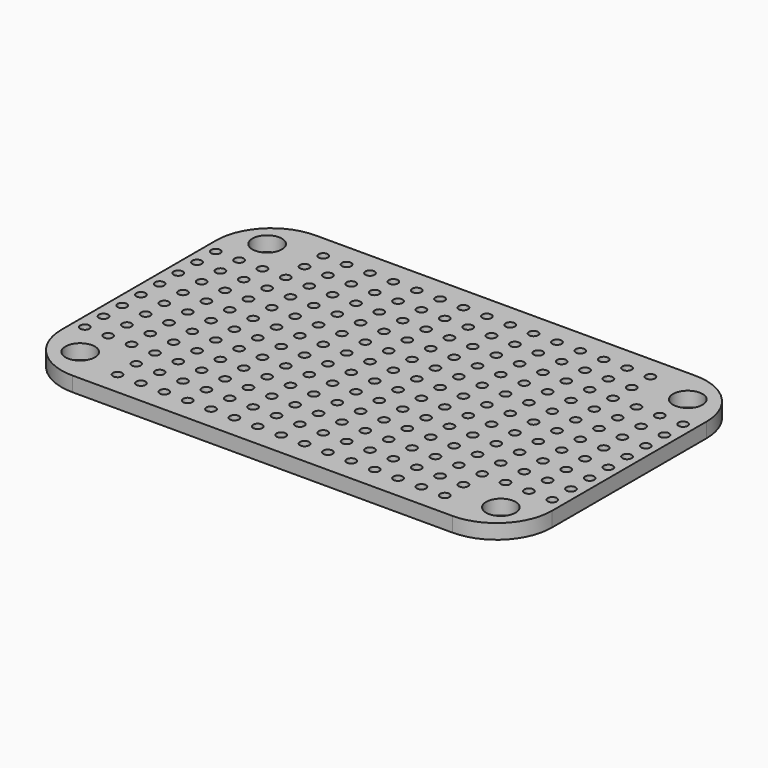
from build123d import *

# Parameters (mm, degrees)
F0_R     = 1.6
F0_R_2   = 0.5
F1_DEPTH = 1.6


with BuildPart() as f1:
    # F0 (on Top) → F1 (new body)
    with BuildSketch(Plane.XY):
        with BuildLine():
            Line((-20.65, -16.5), (20.65, -16.5))
            ThreePointArc((20.65, -16.5), (24.892641, -14.742641), (26.65, -10.5))
            Line((26.65, -10.5), (26.65, 10.5))
            ThreePointArc((26.65, 10.5), (24.892641, 14.742641), (20.65, 16.5))
            Line((20.65, 16.5), (-20.65, 16.5))
            ThreePointArc((-20.65, 16.5), (-24.892641, 14.742641), (-26.65, 10.5))
            Line((-26.65, 10.5), (-26.65, -10.5))
            ThreePointArc((-26.65, -10.5), (-24.892641, -14.742641), (-20.65, -16.5))
        make_face()
        with Locations((-22.86, -12.7)):
            Circle(F0_R, mode=Mode.SUBTRACT)
        with Locations((-17.78, -13.97)):
            Circle(F0_R_2, mode=Mode.SUBTRACT)
        with Locations((-15.24, -13.97)):
            Circle(F0_R_2, mode=Mode.SUBTRACT)
        with Locations((-25.4, -8.89)):
            Circle(F0_R_2, mode=Mode.SUBTRACT)
        with Locations((-22.86, -8.89)):
            Circle(F0_R_2, mode=Mode.SUBTRACT)
        with Locations((-20.32, -8.89)):
            Circle(F0_R_2, mode=Mode.SUBTRACT)
        with Locations((-17.78, -11.43)):
            Circle(F0_R_2, mode=Mode.SUBTRACT)
        with Locations((-15.24, -11.43)):
            Circle(F0_R_2, mode=Mode.SUBTRACT)
        with Locations((-17.78, -8.89)):
            Circle(F0_R_2, mode=Mode.SUBTRACT)
        with Locations((-15.24, -8.89)):
            Circle(F0_R_2, mode=Mode.SUBTRACT)
        with Locations((-12.7, -13.97)):
            Circle(F0_R_2, mode=Mode.SUBTRACT)
        with Locations((-10.16, -13.97)):
            Circle(F0_R_2, mode=Mode.SUBTRACT)
        with Locations((-7.62, -13.97)):
            Circle(F0_R_2, mode=Mode.SUBTRACT)
        with Locations((-5.08, -13.97)):
            Circle(F0_R_2, mode=Mode.SUBTRACT)
        with Locations((-2.54, -13.97)):
            Circle(F0_R_2, mode=Mode.SUBTRACT)
        with Locations((-12.7, -11.43)):
            Circle(F0_R_2, mode=Mode.SUBTRACT)
        with Locations((-10.16, -11.43)):
            Circle(F0_R_2, mode=Mode.SUBTRACT)
        with Locations((-7.62, -11.43)):
            Circle(F0_R_2, mode=Mode.SUBTRACT)
        with Locations((-12.7, -8.89)):
            Circle(F0_R_2, mode=Mode.SUBTRACT)
        with Locations((-10.16, -8.89)):
            Circle(F0_R_2, mode=Mode.SUBTRACT)
        with Locations((-7.62, -8.89)):
            Circle(F0_R_2, mode=Mode.SUBTRACT)
        with Locations((-5.08, -11.43)):
            Circle(F0_R_2, mode=Mode.SUBTRACT)
        with Locations((-2.54, -11.43)):
            Circle(F0_R_2, mode=Mode.SUBTRACT)
        with Locations((-5.08, -8.89)):
            Circle(F0_R_2, mode=Mode.SUBTRACT)
        with Locations((-2.54, -8.89)):
            Circle(F0_R_2, mode=Mode.SUBTRACT)
        with Locations((-25.4, -6.35)):
            Circle(F0_R_2, mode=Mode.SUBTRACT)
        with Locations((-22.86, -6.35)):
            Circle(F0_R_2, mode=Mode.SUBTRACT)
        with Locations((-20.32, -6.35)):
            Circle(F0_R_2, mode=Mode.SUBTRACT)
        with Locations((-17.78, -6.35)):
            Circle(F0_R_2, mode=Mode.SUBTRACT)
        with Locations((-15.24, -6.35)):
            Circle(F0_R_2, mode=Mode.SUBTRACT)
        with Locations((-25.4, -3.81)):
            Circle(F0_R_2, mode=Mode.SUBTRACT)
        with Locations((-22.86, -3.81)):
            Circle(F0_R_2, mode=Mode.SUBTRACT)
        with Locations((-20.32, -3.81)):
            Circle(F0_R_2, mode=Mode.SUBTRACT)
        with Locations((-25.4, -1.27)):
            Circle(F0_R_2, mode=Mode.SUBTRACT)
        with Locations((-22.86, -1.27)):
            Circle(F0_R_2, mode=Mode.SUBTRACT)
        with Locations((-20.32, -1.27)):
            Circle(F0_R_2, mode=Mode.SUBTRACT)
        with Locations((-17.78, -3.81)):
            Circle(F0_R_2, mode=Mode.SUBTRACT)
        with Locations((-15.24, -3.81)):
            Circle(F0_R_2, mode=Mode.SUBTRACT)
        with Locations((-17.78, -1.27)):
            Circle(F0_R_2, mode=Mode.SUBTRACT)
        with Locations((-15.24, -1.27)):
            Circle(F0_R_2, mode=Mode.SUBTRACT)
        with Locations((-12.7, -6.35)):
            Circle(F0_R_2, mode=Mode.SUBTRACT)
        with Locations((-10.16, -6.35)):
            Circle(F0_R_2, mode=Mode.SUBTRACT)
        with Locations((-7.62, -6.35)):
            Circle(F0_R_2, mode=Mode.SUBTRACT)
        with Locations((-5.08, -6.35)):
            Circle(F0_R_2, mode=Mode.SUBTRACT)
        with Locations((-2.54, -6.35)):
            Circle(F0_R_2, mode=Mode.SUBTRACT)
        with Locations((-12.7, -3.81)):
            Circle(F0_R_2, mode=Mode.SUBTRACT)
        with Locations((-10.16, -3.81)):
            Circle(F0_R_2, mode=Mode.SUBTRACT)
        with Locations((-7.62, -3.81)):
            Circle(F0_R_2, mode=Mode.SUBTRACT)
        with Locations((-12.7, -1.27)):
            Circle(F0_R_2, mode=Mode.SUBTRACT)
        with Locations((-10.16, -1.27)):
            Circle(F0_R_2, mode=Mode.SUBTRACT)
        with Locations((-7.62, -1.27)):
            Circle(F0_R_2, mode=Mode.SUBTRACT)
        with Locations((-5.08, -3.81)):
            Circle(F0_R_2, mode=Mode.SUBTRACT)
        with Locations((-2.54, -3.81)):
            Circle(F0_R_2, mode=Mode.SUBTRACT)
        with Locations((-5.08, -1.27)):
            Circle(F0_R_2, mode=Mode.SUBTRACT)
        with Locations((-2.54, -1.27)):
            Circle(F0_R_2, mode=Mode.SUBTRACT)
        with Locations((0, -13.97)):
            Circle(F0_R_2, mode=Mode.SUBTRACT)
        with Locations((2.54, -13.97)):
            Circle(F0_R_2, mode=Mode.SUBTRACT)
        with Locations((5.08, -13.97)):
            Circle(F0_R_2, mode=Mode.SUBTRACT)
        with Locations((7.62, -13.97)):
            Circle(F0_R_2, mode=Mode.SUBTRACT)
        with Locations((10.16, -13.97)):
            Circle(F0_R_2, mode=Mode.SUBTRACT)
        with Locations((12.7, -13.97)):
            Circle(F0_R_2, mode=Mode.SUBTRACT)
        with Locations((0, -11.43)):
            Circle(F0_R_2, mode=Mode.SUBTRACT)
        with Locations((2.54, -11.43)):
            Circle(F0_R_2, mode=Mode.SUBTRACT)
        with Locations((5.08, -11.43)):
            Circle(F0_R_2, mode=Mode.SUBTRACT)
        with Locations((0, -8.89)):
            Circle(F0_R_2, mode=Mode.SUBTRACT)
        with Locations((2.54, -8.89)):
            Circle(F0_R_2, mode=Mode.SUBTRACT)
        with Locations((5.08, -8.89)):
            Circle(F0_R_2, mode=Mode.SUBTRACT)
        with Locations((7.62, -11.43)):
            Circle(F0_R_2, mode=Mode.SUBTRACT)
        with Locations((10.16, -11.43)):
            Circle(F0_R_2, mode=Mode.SUBTRACT)
        with Locations((12.7, -11.43)):
            Circle(F0_R_2, mode=Mode.SUBTRACT)
        with Locations((7.62, -8.89)):
            Circle(F0_R_2, mode=Mode.SUBTRACT)
        with Locations((10.16, -8.89)):
            Circle(F0_R_2, mode=Mode.SUBTRACT)
        with Locations((12.7, -8.89)):
            Circle(F0_R_2, mode=Mode.SUBTRACT)
        with Locations((15.24, -13.97)):
            Circle(F0_R_2, mode=Mode.SUBTRACT)
        with Locations((17.78, -13.97)):
            Circle(F0_R_2, mode=Mode.SUBTRACT)
        with Locations((22.86, -12.7)):
            Circle(F0_R, mode=Mode.SUBTRACT)
        with Locations((15.24, -11.43)):
            Circle(F0_R_2, mode=Mode.SUBTRACT)
        with Locations((17.78, -11.43)):
            Circle(F0_R_2, mode=Mode.SUBTRACT)
        with Locations((15.24, -8.89)):
            Circle(F0_R_2, mode=Mode.SUBTRACT)
        with Locations((17.78, -8.89)):
            Circle(F0_R_2, mode=Mode.SUBTRACT)
        with Locations((20.32, -8.89)):
            Circle(F0_R_2, mode=Mode.SUBTRACT)
        with Locations((22.86, -8.89)):
            Circle(F0_R_2, mode=Mode.SUBTRACT)
        with Locations((25.4, -8.89)):
            Circle(F0_R_2, mode=Mode.SUBTRACT)
        with Locations((0, -6.35)):
            Circle(F0_R_2, mode=Mode.SUBTRACT)
        with Locations((2.54, -6.35)):
            Circle(F0_R_2, mode=Mode.SUBTRACT)
        with Locations((5.08, -6.35)):
            Circle(F0_R_2, mode=Mode.SUBTRACT)
        with Locations((7.62, -6.35)):
            Circle(F0_R_2, mode=Mode.SUBTRACT)
        with Locations((10.16, -6.35)):
            Circle(F0_R_2, mode=Mode.SUBTRACT)
        with Locations((12.7, -6.35)):
            Circle(F0_R_2, mode=Mode.SUBTRACT)
        with Locations((0, -3.81)):
            Circle(F0_R_2, mode=Mode.SUBTRACT)
        with Locations((2.54, -3.81)):
            Circle(F0_R_2, mode=Mode.SUBTRACT)
        with Locations((5.08, -3.81)):
            Circle(F0_R_2, mode=Mode.SUBTRACT)
        with Locations((0, -1.27)):
            Circle(F0_R_2, mode=Mode.SUBTRACT)
        with Locations((2.54, -1.27)):
            Circle(F0_R_2, mode=Mode.SUBTRACT)
        with Locations((5.08, -1.27)):
            Circle(F0_R_2, mode=Mode.SUBTRACT)
        with Locations((7.62, -3.81)):
            Circle(F0_R_2, mode=Mode.SUBTRACT)
        with Locations((10.16, -3.81)):
            Circle(F0_R_2, mode=Mode.SUBTRACT)
        with Locations((12.7, -3.81)):
            Circle(F0_R_2, mode=Mode.SUBTRACT)
        with Locations((7.62, -1.27)):
            Circle(F0_R_2, mode=Mode.SUBTRACT)
        with Locations((10.16, -1.27)):
            Circle(F0_R_2, mode=Mode.SUBTRACT)
        with Locations((12.7, -1.27)):
            Circle(F0_R_2, mode=Mode.SUBTRACT)
        with Locations((15.24, -6.35)):
            Circle(F0_R_2, mode=Mode.SUBTRACT)
        with Locations((17.78, -6.35)):
            Circle(F0_R_2, mode=Mode.SUBTRACT)
        with Locations((20.32, -6.35)):
            Circle(F0_R_2, mode=Mode.SUBTRACT)
        with Locations((22.86, -6.35)):
            Circle(F0_R_2, mode=Mode.SUBTRACT)
        with Locations((25.4, -6.35)):
            Circle(F0_R_2, mode=Mode.SUBTRACT)
        with Locations((15.24, -3.81)):
            Circle(F0_R_2, mode=Mode.SUBTRACT)
        with Locations((17.78, -3.81)):
            Circle(F0_R_2, mode=Mode.SUBTRACT)
        with Locations((15.24, -1.27)):
            Circle(F0_R_2, mode=Mode.SUBTRACT)
        with Locations((17.78, -1.27)):
            Circle(F0_R_2, mode=Mode.SUBTRACT)
        with Locations((20.32, -3.81)):
            Circle(F0_R_2, mode=Mode.SUBTRACT)
        with Locations((22.86, -3.81)):
            Circle(F0_R_2, mode=Mode.SUBTRACT)
        with Locations((25.4, -3.81)):
            Circle(F0_R_2, mode=Mode.SUBTRACT)
        with Locations((20.32, -1.27)):
            Circle(F0_R_2, mode=Mode.SUBTRACT)
        with Locations((22.86, -1.27)):
            Circle(F0_R_2, mode=Mode.SUBTRACT)
        with Locations((25.4, -1.27)):
            Circle(F0_R_2, mode=Mode.SUBTRACT)
        with Locations((-25.4, 1.27)):
            Circle(F0_R_2, mode=Mode.SUBTRACT)
        with Locations((-22.86, 1.27)):
            Circle(F0_R_2, mode=Mode.SUBTRACT)
        with Locations((-20.32, 1.27)):
            Circle(F0_R_2, mode=Mode.SUBTRACT)
        with Locations((-25.4, 3.81)):
            Circle(F0_R_2, mode=Mode.SUBTRACT)
        with Locations((-22.86, 3.81)):
            Circle(F0_R_2, mode=Mode.SUBTRACT)
        with Locations((-20.32, 3.81)):
            Circle(F0_R_2, mode=Mode.SUBTRACT)
        with Locations((-17.78, 1.27)):
            Circle(F0_R_2, mode=Mode.SUBTRACT)
        with Locations((-15.24, 1.27)):
            Circle(F0_R_2, mode=Mode.SUBTRACT)
        with Locations((-17.78, 3.81)):
            Circle(F0_R_2, mode=Mode.SUBTRACT)
        with Locations((-15.24, 3.81)):
            Circle(F0_R_2, mode=Mode.SUBTRACT)
        with Locations((-25.4, 6.35)):
            Circle(F0_R_2, mode=Mode.SUBTRACT)
        with Locations((-22.86, 6.35)):
            Circle(F0_R_2, mode=Mode.SUBTRACT)
        with Locations((-20.32, 6.35)):
            Circle(F0_R_2, mode=Mode.SUBTRACT)
        with Locations((-17.78, 6.35)):
            Circle(F0_R_2, mode=Mode.SUBTRACT)
        with Locations((-15.24, 6.35)):
            Circle(F0_R_2, mode=Mode.SUBTRACT)
        with Locations((-12.7, 1.27)):
            Circle(F0_R_2, mode=Mode.SUBTRACT)
        with Locations((-10.16, 1.27)):
            Circle(F0_R_2, mode=Mode.SUBTRACT)
        with Locations((-7.62, 1.27)):
            Circle(F0_R_2, mode=Mode.SUBTRACT)
        with Locations((-12.7, 3.81)):
            Circle(F0_R_2, mode=Mode.SUBTRACT)
        with Locations((-10.16, 3.81)):
            Circle(F0_R_2, mode=Mode.SUBTRACT)
        with Locations((-7.62, 3.81)):
            Circle(F0_R_2, mode=Mode.SUBTRACT)
        with Locations((-5.08, 1.27)):
            Circle(F0_R_2, mode=Mode.SUBTRACT)
        with Locations((-2.54, 1.27)):
            Circle(F0_R_2, mode=Mode.SUBTRACT)
        with Locations((-5.08, 3.81)):
            Circle(F0_R_2, mode=Mode.SUBTRACT)
        with Locations((-2.54, 3.81)):
            Circle(F0_R_2, mode=Mode.SUBTRACT)
        with Locations((-12.7, 6.35)):
            Circle(F0_R_2, mode=Mode.SUBTRACT)
        with Locations((-10.16, 6.35)):
            Circle(F0_R_2, mode=Mode.SUBTRACT)
        with Locations((-7.62, 6.35)):
            Circle(F0_R_2, mode=Mode.SUBTRACT)
        with Locations((-5.08, 6.35)):
            Circle(F0_R_2, mode=Mode.SUBTRACT)
        with Locations((-2.54, 6.35)):
            Circle(F0_R_2, mode=Mode.SUBTRACT)
        with Locations((-25.4, 8.89)):
            Circle(F0_R_2, mode=Mode.SUBTRACT)
        with Locations((-22.86, 8.89)):
            Circle(F0_R_2, mode=Mode.SUBTRACT)
        with Locations((-20.32, 8.89)):
            Circle(F0_R_2, mode=Mode.SUBTRACT)
        with Locations((-17.78, 8.89)):
            Circle(F0_R_2, mode=Mode.SUBTRACT)
        with Locations((-15.24, 8.89)):
            Circle(F0_R_2, mode=Mode.SUBTRACT)
        with Locations((-17.78, 11.43)):
            Circle(F0_R_2, mode=Mode.SUBTRACT)
        with Locations((-15.24, 11.43)):
            Circle(F0_R_2, mode=Mode.SUBTRACT)
        with Locations((-22.86, 12.7)):
            Circle(F0_R, mode=Mode.SUBTRACT)
        with Locations((-17.78, 13.97)):
            Circle(F0_R_2, mode=Mode.SUBTRACT)
        with Locations((-15.24, 13.97)):
            Circle(F0_R_2, mode=Mode.SUBTRACT)
        with Locations((-12.7, 8.89)):
            Circle(F0_R_2, mode=Mode.SUBTRACT)
        with Locations((-10.16, 8.89)):
            Circle(F0_R_2, mode=Mode.SUBTRACT)
        with Locations((-7.62, 8.89)):
            Circle(F0_R_2, mode=Mode.SUBTRACT)
        with Locations((-12.7, 11.43)):
            Circle(F0_R_2, mode=Mode.SUBTRACT)
        with Locations((-10.16, 11.43)):
            Circle(F0_R_2, mode=Mode.SUBTRACT)
        with Locations((-7.62, 11.43)):
            Circle(F0_R_2, mode=Mode.SUBTRACT)
        with Locations((-5.08, 8.89)):
            Circle(F0_R_2, mode=Mode.SUBTRACT)
        with Locations((-2.54, 8.89)):
            Circle(F0_R_2, mode=Mode.SUBTRACT)
        with Locations((-5.08, 11.43)):
            Circle(F0_R_2, mode=Mode.SUBTRACT)
        with Locations((-2.54, 11.43)):
            Circle(F0_R_2, mode=Mode.SUBTRACT)
        with Locations((-12.7, 13.97)):
            Circle(F0_R_2, mode=Mode.SUBTRACT)
        with Locations((-10.16, 13.97)):
            Circle(F0_R_2, mode=Mode.SUBTRACT)
        with Locations((-7.62, 13.97)):
            Circle(F0_R_2, mode=Mode.SUBTRACT)
        with Locations((-5.08, 13.97)):
            Circle(F0_R_2, mode=Mode.SUBTRACT)
        with Locations((-2.54, 13.97)):
            Circle(F0_R_2, mode=Mode.SUBTRACT)
        with Locations((0, 1.27)):
            Circle(F0_R_2, mode=Mode.SUBTRACT)
        with Locations((2.54, 1.27)):
            Circle(F0_R_2, mode=Mode.SUBTRACT)
        with Locations((5.08, 1.27)):
            Circle(F0_R_2, mode=Mode.SUBTRACT)
        with Locations((0, 3.81)):
            Circle(F0_R_2, mode=Mode.SUBTRACT)
        with Locations((2.54, 3.81)):
            Circle(F0_R_2, mode=Mode.SUBTRACT)
        with Locations((5.08, 3.81)):
            Circle(F0_R_2, mode=Mode.SUBTRACT)
        with Locations((7.62, 1.27)):
            Circle(F0_R_2, mode=Mode.SUBTRACT)
        with Locations((10.16, 1.27)):
            Circle(F0_R_2, mode=Mode.SUBTRACT)
        with Locations((12.7, 1.27)):
            Circle(F0_R_2, mode=Mode.SUBTRACT)
        with Locations((7.62, 3.81)):
            Circle(F0_R_2, mode=Mode.SUBTRACT)
        with Locations((10.16, 3.81)):
            Circle(F0_R_2, mode=Mode.SUBTRACT)
        with Locations((12.7, 3.81)):
            Circle(F0_R_2, mode=Mode.SUBTRACT)
        with Locations((0, 6.35)):
            Circle(F0_R_2, mode=Mode.SUBTRACT)
        with Locations((2.54, 6.35)):
            Circle(F0_R_2, mode=Mode.SUBTRACT)
        with Locations((5.08, 6.35)):
            Circle(F0_R_2, mode=Mode.SUBTRACT)
        with Locations((7.62, 6.35)):
            Circle(F0_R_2, mode=Mode.SUBTRACT)
        with Locations((10.16, 6.35)):
            Circle(F0_R_2, mode=Mode.SUBTRACT)
        with Locations((12.7, 6.35)):
            Circle(F0_R_2, mode=Mode.SUBTRACT)
        with Locations((15.24, 1.27)):
            Circle(F0_R_2, mode=Mode.SUBTRACT)
        with Locations((17.78, 1.27)):
            Circle(F0_R_2, mode=Mode.SUBTRACT)
        with Locations((15.24, 3.81)):
            Circle(F0_R_2, mode=Mode.SUBTRACT)
        with Locations((17.78, 3.81)):
            Circle(F0_R_2, mode=Mode.SUBTRACT)
        with Locations((20.32, 1.27)):
            Circle(F0_R_2, mode=Mode.SUBTRACT)
        with Locations((22.86, 1.27)):
            Circle(F0_R_2, mode=Mode.SUBTRACT)
        with Locations((25.4, 1.27)):
            Circle(F0_R_2, mode=Mode.SUBTRACT)
        with Locations((20.32, 3.81)):
            Circle(F0_R_2, mode=Mode.SUBTRACT)
        with Locations((22.86, 3.81)):
            Circle(F0_R_2, mode=Mode.SUBTRACT)
        with Locations((25.4, 3.81)):
            Circle(F0_R_2, mode=Mode.SUBTRACT)
        with Locations((15.24, 6.35)):
            Circle(F0_R_2, mode=Mode.SUBTRACT)
        with Locations((17.78, 6.35)):
            Circle(F0_R_2, mode=Mode.SUBTRACT)
        with Locations((20.32, 6.35)):
            Circle(F0_R_2, mode=Mode.SUBTRACT)
        with Locations((22.86, 6.35)):
            Circle(F0_R_2, mode=Mode.SUBTRACT)
        with Locations((25.4, 6.35)):
            Circle(F0_R_2, mode=Mode.SUBTRACT)
        with Locations((0, 8.89)):
            Circle(F0_R_2, mode=Mode.SUBTRACT)
        with Locations((2.54, 8.89)):
            Circle(F0_R_2, mode=Mode.SUBTRACT)
        with Locations((5.08, 8.89)):
            Circle(F0_R_2, mode=Mode.SUBTRACT)
        with Locations((0, 11.43)):
            Circle(F0_R_2, mode=Mode.SUBTRACT)
        with Locations((2.54, 11.43)):
            Circle(F0_R_2, mode=Mode.SUBTRACT)
        with Locations((5.08, 11.43)):
            Circle(F0_R_2, mode=Mode.SUBTRACT)
        with Locations((7.62, 8.89)):
            Circle(F0_R_2, mode=Mode.SUBTRACT)
        with Locations((10.16, 8.89)):
            Circle(F0_R_2, mode=Mode.SUBTRACT)
        with Locations((12.7, 8.89)):
            Circle(F0_R_2, mode=Mode.SUBTRACT)
        with Locations((7.62, 11.43)):
            Circle(F0_R_2, mode=Mode.SUBTRACT)
        with Locations((10.16, 11.43)):
            Circle(F0_R_2, mode=Mode.SUBTRACT)
        with Locations((12.7, 11.43)):
            Circle(F0_R_2, mode=Mode.SUBTRACT)
        with Locations((0, 13.97)):
            Circle(F0_R_2, mode=Mode.SUBTRACT)
        with Locations((2.54, 13.97)):
            Circle(F0_R_2, mode=Mode.SUBTRACT)
        with Locations((5.08, 13.97)):
            Circle(F0_R_2, mode=Mode.SUBTRACT)
        with Locations((7.62, 13.97)):
            Circle(F0_R_2, mode=Mode.SUBTRACT)
        with Locations((10.16, 13.97)):
            Circle(F0_R_2, mode=Mode.SUBTRACT)
        with Locations((12.7, 13.97)):
            Circle(F0_R_2, mode=Mode.SUBTRACT)
        with Locations((15.24, 8.89)):
            Circle(F0_R_2, mode=Mode.SUBTRACT)
        with Locations((17.78, 8.89)):
            Circle(F0_R_2, mode=Mode.SUBTRACT)
        with Locations((15.24, 11.43)):
            Circle(F0_R_2, mode=Mode.SUBTRACT)
        with Locations((17.78, 11.43)):
            Circle(F0_R_2, mode=Mode.SUBTRACT)
        with Locations((20.32, 8.89)):
            Circle(F0_R_2, mode=Mode.SUBTRACT)
        with Locations((22.86, 8.89)):
            Circle(F0_R_2, mode=Mode.SUBTRACT)
        with Locations((25.4, 8.89)):
            Circle(F0_R_2, mode=Mode.SUBTRACT)
        with Locations((15.24, 13.97)):
            Circle(F0_R_2, mode=Mode.SUBTRACT)
        with Locations((17.78, 13.97)):
            Circle(F0_R_2, mode=Mode.SUBTRACT)
        with Locations((22.86, 12.7)):
            Circle(F0_R, mode=Mode.SUBTRACT)
    extrude(amount=F1_DEPTH)


solid = f1.part
